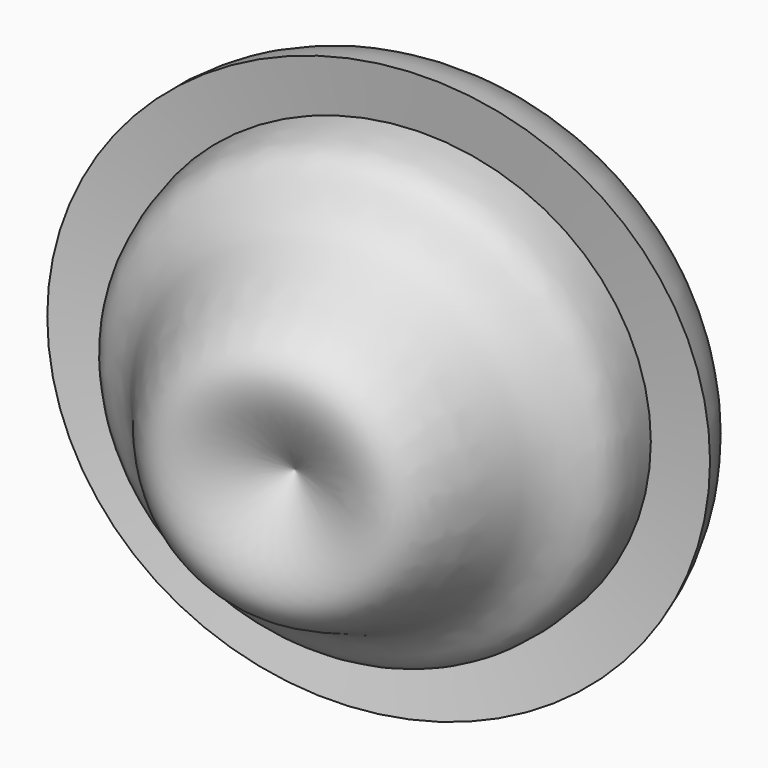
from build123d import *


with BuildPart() as f1:
    # F0 (on Top) → F1 (revolve)
    with BuildSketch(Plane.XY):
        with BuildLine():
            Line((23.609507829, 22.0063943416), (34.3941003084, 22.5893463939))
            ThreePointArc((34.3941003084, 22.5893463939), (20.4649624491, 37.6183745643), (0, 36.5801639855))
            ThreePointArc((0, 36.5801639855), (-8.1446175856, 23.9489166784), (-19.5288527757, 14.1365574673))
            Line((-19.5288527757, 14.1365574673), (-11.9504919276, -17.9257374257))
            add(Edge.make_bspline(
                [(-11.9504919276, -17.9257374257), (-3.2921123574, -20.9871153222), (14.3778327289, -27.2347484828), (15.0920027905, 4.2111228661), (25.8508491567, 9.7879606885), (24.3640357839, 17.8931655162), (23.609507829, 22.0063943416)],
                knots=[0, 0, 0, 0, 0.2906450611, 0.5931458915, 0.7935297032, 1, 1, 1, 1], degree=3))
        make_face()
    revolve(axis=Axis((-15.7396723516, -1.8945899792, 0), (0.2300254607, -0.9731846112, 0)))


solid = f1.part
